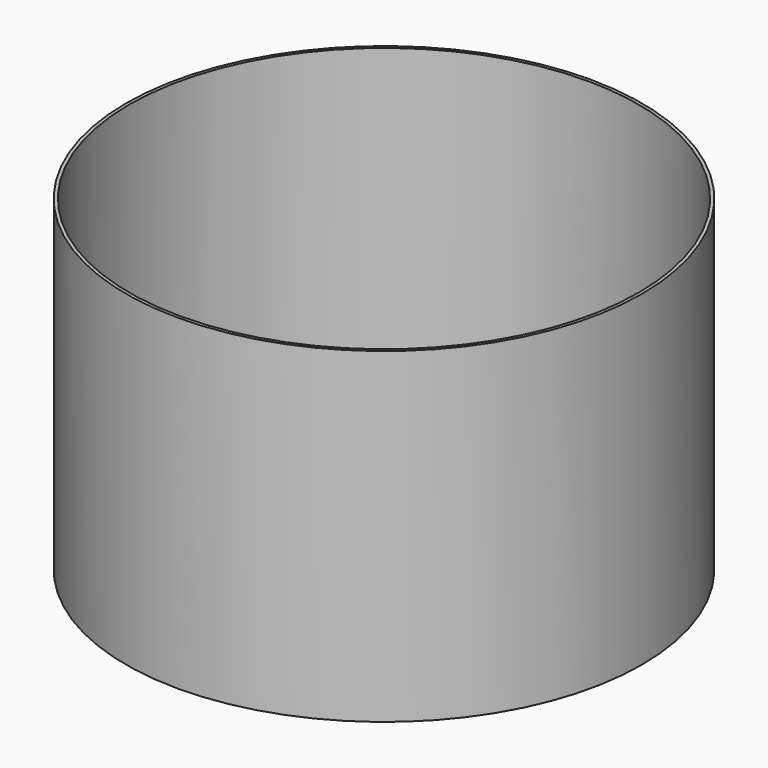
from build123d import *

# Parameters (mm, degrees)
F0_R     = 200.694583
F1_DEPTH = 254
F2_T     = -2.54
F4_D     = 254


with BuildPart() as f1:
    # F0 (on Top) → F1 (new body)
    with BuildSketch(Plane.XY):
        with Locations((-5.854189, 9.84606)):
            Circle(F0_R)
    extrude(amount=F1_DEPTH)

    # F2
    f2_openings = [f1.faces().sort_by_distance(p)[0] for p in [
        (-5.854189, 9.84606, 254),
    ]]
    offset(amount=F2_T, openings=f2_openings)

    # F4 (through all)
    with Locations(Plane.XY.offset(2.54)):
        with Locations((-5.854189, 9.84606)):
            Hole(F4_D / 2)


solid = f1.part
